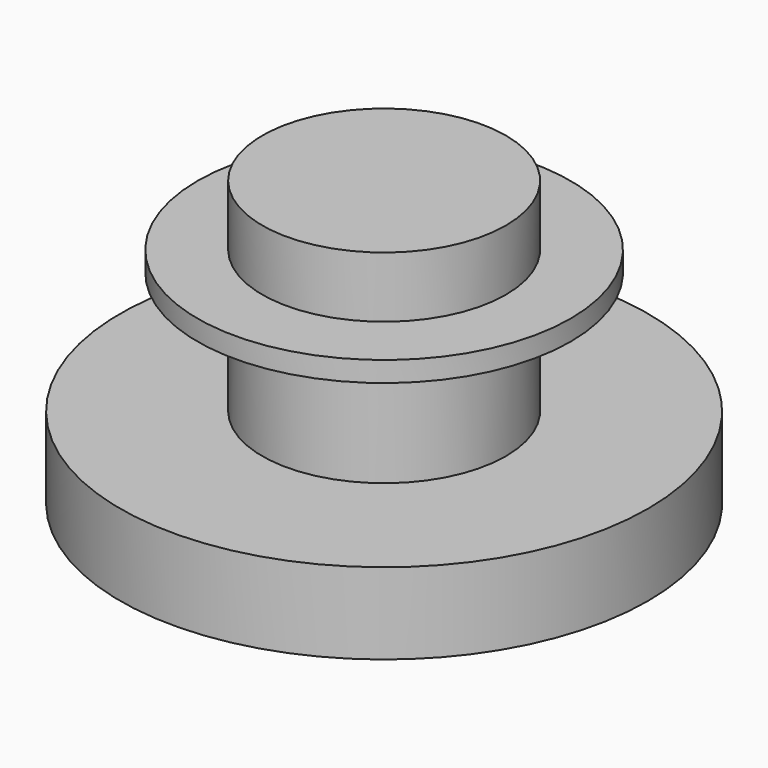
from build123d import *

# Parameters (mm, degrees)
F0_R     = 6.5
F1_DEPTH = 2
F2_R     = 3
F3_DEPTH = 5
F5_R     = 4.593438
F6_DEPTH = 0.5


with BuildPart() as f1:
    # F0 (on Top) → F1 (new body)
    with BuildSketch(Plane.XY):
        Circle(F0_R)
    extrude(amount=F1_DEPTH)

    # F2 (on face) → F3 (join)
    with BuildSketch(Plane.XY.offset(2)):
        Circle(F2_R)
    extrude(amount=F3_DEPTH)

    # F5 (on offset) → F6 (join)
    with BuildSketch(Plane.XY.offset(5)):
        Circle(F5_R)
    extrude(amount=F6_DEPTH)


solid = f1.part
